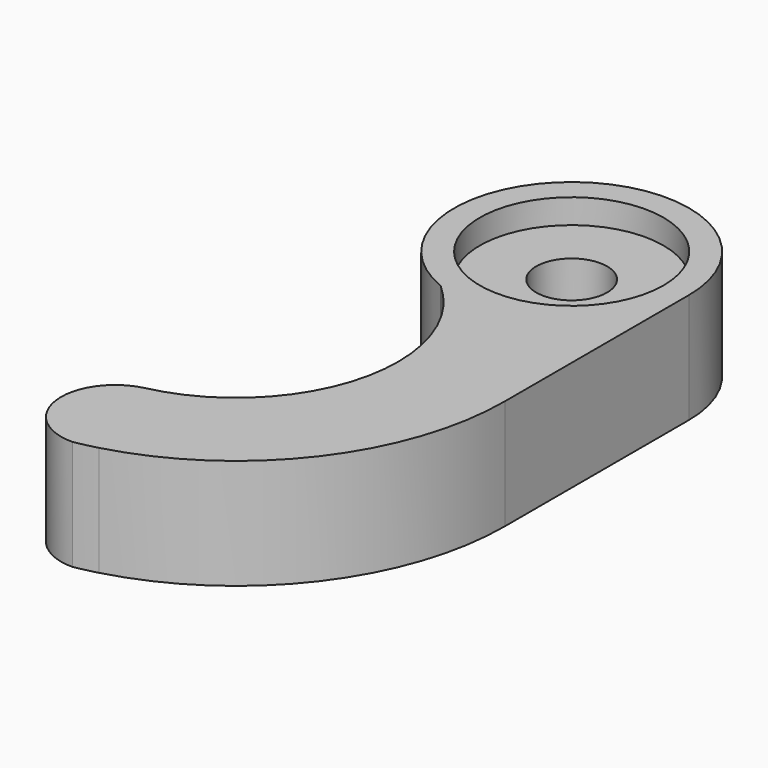
from build123d import *

# Parameters (mm, degrees)
F0_R     = 4.3
F1_DEPTH = 5.15
F0_R_2   = 1.66
F2_DEPTH = 4
F3_DEPTH = 1.2


with BuildPart() as f1:
    # F0 (on Top) → F1 (new body)
    with BuildSketch(Plane.XY):
        with BuildLine():
            Line((5.5, -10.778409), (5.5, 0))
            ThreePointArc((5.5, 0), (3.080493, -4.556376), (-2.049295, -5.103958))
            ThreePointArc((-2.049295, -5.103958), (0.249491, -12.712308), (-5.5, -18.2))
            ThreePointArc((-5.5, -18.2), (-7.361798, -20.974231), (-4.839874, -23.165703))
            ThreePointArc((-4.839874, -23.165703), (-4.313128, -23.058356), (-3.791444, -22.928621))
            ThreePointArc((-3.791444, -22.928621), (2.910923, -18.426262), (5.5, -10.778409))
        make_face()
        with BuildLine():
            ThreePointArc((-2.049295, -5.103958), (3.080493, -4.556376), (5.5, 0))
            ThreePointArc((5.5, 0), (-3.080493, 4.556376), (-2.049295, -5.103958))
        make_face()
        Circle(F0_R, mode=Mode.SUBTRACT)
    extrude(amount=F1_DEPTH)

    # F0 (on Top) → F2 (join)
    with BuildSketch(Plane.XY):
        Circle(F0_R)
        Circle(F0_R_2, mode=Mode.SUBTRACT)
    extrude(amount=F2_DEPTH)

    # F0 (on Top) → F3 (cut)
    with BuildSketch(Plane.XY):
        Circle(F0_R)
        Circle(F0_R_2, mode=Mode.SUBTRACT)
    extrude(amount=F3_DEPTH, mode=Mode.SUBTRACT)


solid = f1.part
